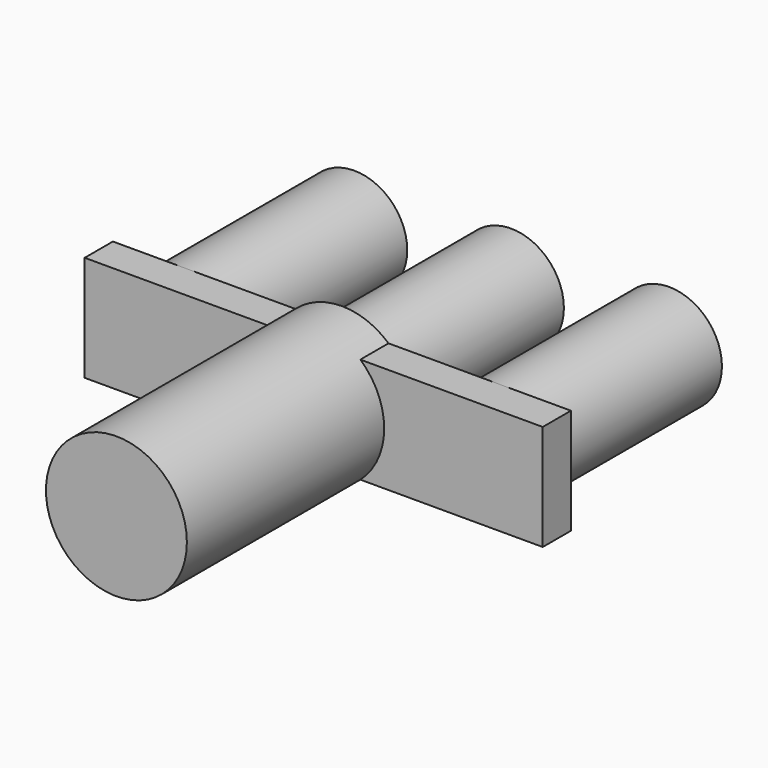
from build123d import *

# Parameters (mm, degrees)
F0_W     = 165.1
F0_H     = 38.1
F1_DEPTH = 12.7
F2_R     = 25.4
F3_DEPTH = 101.6
F4_R     = 19.05
F5_DEPTH = 76.2


with BuildPart() as f1:
    # F0 (on Front) → F1 (new body)
    with BuildSketch(Plane.XZ):
        Rectangle(F0_W, F0_H)
    extrude(amount=F1_DEPTH)

    # F2 (on Front) → F3 (join)
    with BuildSketch(Plane.XZ):
        Circle(F2_R)
    extrude(amount=F3_DEPTH)

    # F4 (on Front) → F5 (join)
    with BuildSketch(Plane.XZ):
        with Locations((56.968745, 0)):
            Circle(F4_R)
        with Locations((-56.4654, 0)):
            Circle(F4_R)
        Circle(F4_R)
    extrude(amount=-F5_DEPTH)


solid = f1.part
